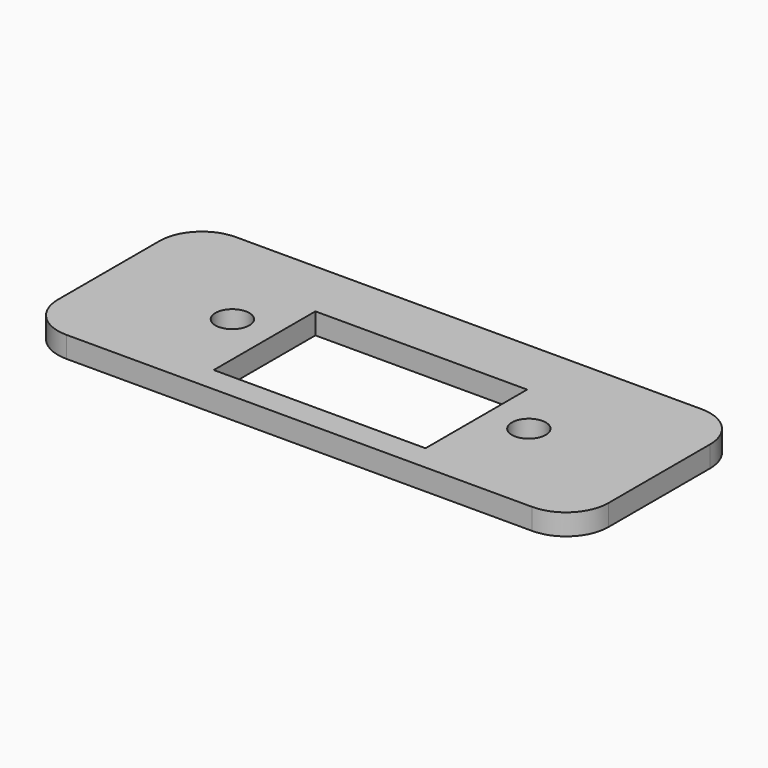
from build123d import *

# Parameters (mm, degrees)
F0_W     = 65
F0_H     = 25
F0_R     = 2
F0_W_2   = 25
F0_H_2   = 15
F1_DEPTH = 2.5
F2_R     = 5
F3_R     = 5


with BuildPart() as f1:
    # F0 (on Top) → F1 (new body)
    with BuildSketch(Plane.XY):
        with Locations((0, 0.5)):
            Rectangle(F0_W, F0_H)
        with Locations((-17.5, 0)):
            Circle(F0_R, mode=Mode.SUBTRACT)
        with Locations((0, -1.5)):
            Rectangle(F0_W_2, F0_H_2, mode=Mode.SUBTRACT)
        with Locations((17.5, 0)):
            Circle(F0_R, mode=Mode.SUBTRACT)
    extrude(amount=F1_DEPTH)

    # F2
    f2_edges = [f1.edges().sort_by_distance(p)[0] for p in [
        (32.5, 13, 1.25),
    ]]
    fillet(f2_edges, radius=F2_R)

    # F3
    f3_edges = [f1.edges().sort_by_distance(p)[0] for p in [
        (32.5, -12, 1.25),
        (-32.5, -12, 1.25),
        (-32.5, 13, 1.25),
    ]]
    fillet(f3_edges, radius=F3_R)


solid = f1.part
